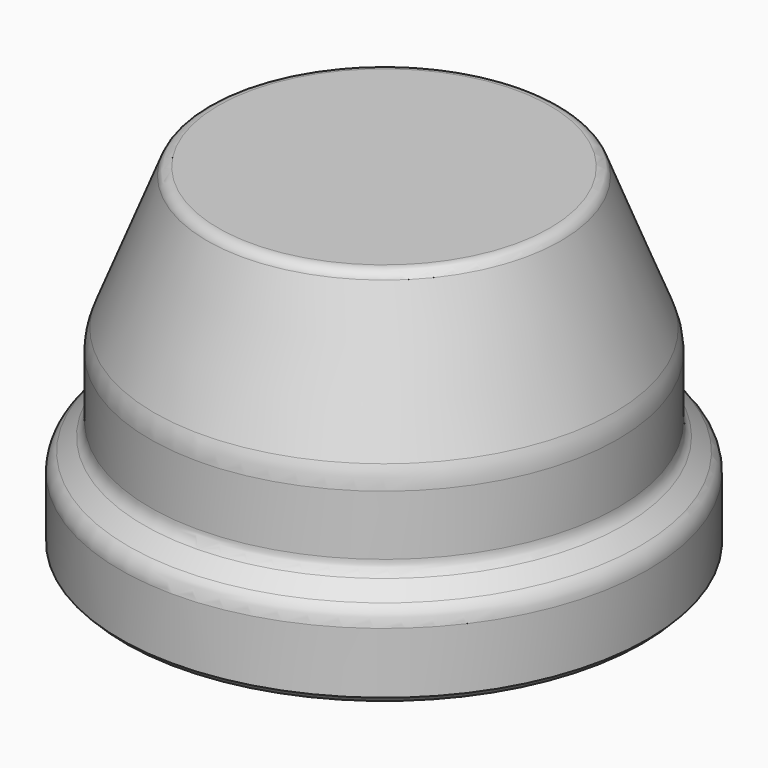
from build123d import *

# Parameters (mm, degrees)
F2_SIZE = 1


with BuildPart() as f1:
    # F0 (on Front) → F1 (revolve)
    with BuildSketch(Plane.XZ):
        with BuildLine():
            Line((0, 56), (0, 0))
            Line((0, 0), (44, 0))
            Line((44, 0), (44, 11.173192))
            ThreePointArc((44, 11.173192), (43.638504, 12.834904), (42.619357, 14.196265))
            Line((42.619357, 14.196265), (40.035482, 16.435076))
            ThreePointArc((40.035482, 16.435076), (39.271122, 17.456097), (39, 18.702381))
            Line((39, 18.702381), (39, 28.702381))
            ThreePointArc((39, 28.702381), (38.824673, 30.56673), (38.304841, 32.365704))
            Line((38.304841, 32.365704), (29.498951, 54.732665))
            ThreePointArc((29.498951, 54.732665), (28.763743, 55.653077), (27.637983, 56))
            Line((27.637983, 56), (0, 56))
        make_face()
    revolve(axis=Axis((0, 0, 28), (0, 0, 1)))

    # F2
    f2_edges = [f1.edges().sort_by_distance(p)[0] for p in [
        (-44, 0, 0),
    ]]
    chamfer(f2_edges, length=F2_SIZE)


solid = f1.part
